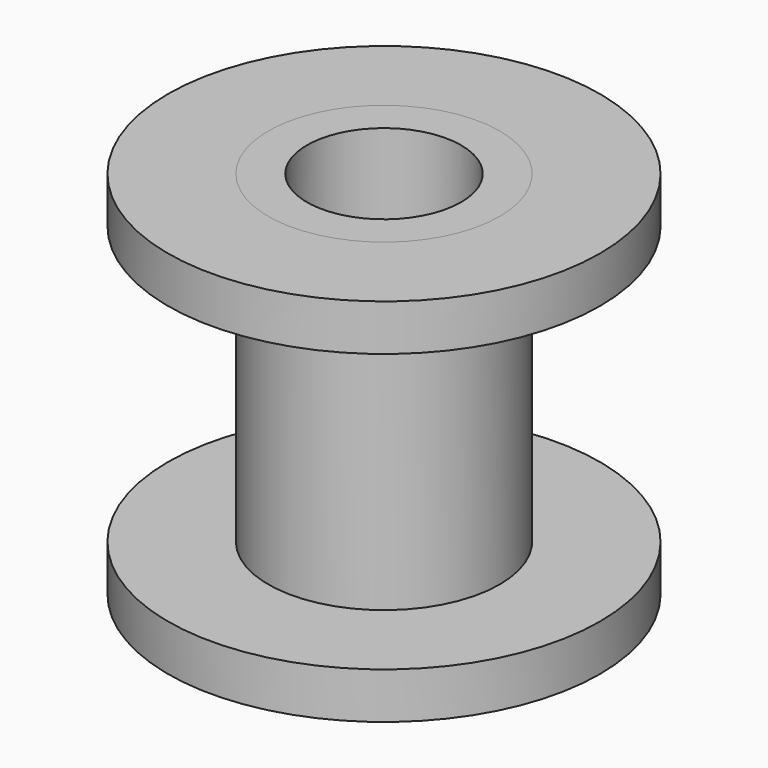
from build123d import *

# Parameters (mm, degrees)
F0_R     = 17.78
F0_R_2   = 9.525
F1_DEPTH = 3.81
F0_R_3   = 6.35
F2_DEPTH = 30.48
F3_R     = 17.78
F3_R_2   = 9.525
F4_DEPTH = 3.81


with BuildPart() as f1:
    # F0 (on Top) → F1 (new body)
    with BuildSketch(Plane.XY):
        Circle(F0_R)
        Circle(F0_R_2, mode=Mode.SUBTRACT)
    extrude(amount=F1_DEPTH)

    # F0 (on Top) → F2 (join)
    with BuildSketch(Plane.XY):
        Circle(F0_R_2)
        Circle(F0_R_3, mode=Mode.SUBTRACT)
    extrude(amount=F2_DEPTH)


with BuildPart() as f4:
    # F3 (on face) → F4 (new body)
    with BuildSketch(Plane.XY.offset(30.48)):
        Circle(F3_R)
        Circle(F3_R_2, mode=Mode.SUBTRACT)
    extrude(amount=-F4_DEPTH)


solid = Compound([f1.part, f4.part])
